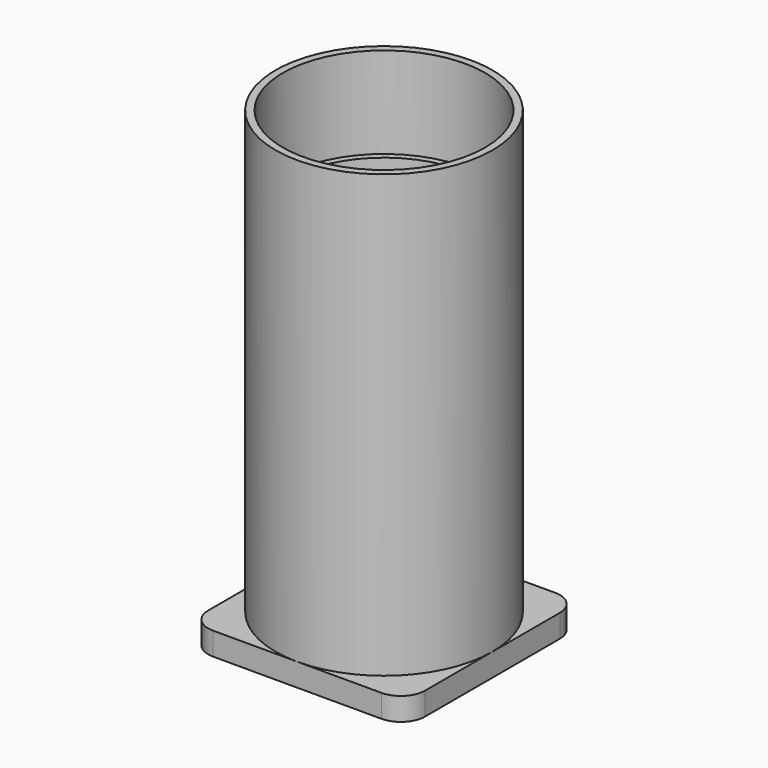
from build123d import *

# Parameters (mm, degrees)
F0_W     = 45.3136
F0_H     = 45.3136
F1_DEPTH = 2.3876
F2_R     = 22.6568
F2_R_2   = 19.8374
F3_DEPTH = 92.2274
F4_W     = 28.575
F4_H     = 28.575
F5_DEPTH = 4.7752
F6_R     = 21.1328
F7_DEPTH = 19.05
F8_R     = 5.08


with BuildPart() as f1:
    # F0 (on Top) → F1 (new body, symmetric)
    with BuildSketch(Plane.XY):
        Rectangle(F0_W, F0_H)
    extrude(amount=F1_DEPTH, both=True)

    # F2 (on face) → F3 (join)
    with BuildSketch(Plane.XY.offset(2.3876)):
        Circle(F2_R)
        Circle(F2_R_2, mode=Mode.SUBTRACT)
    extrude(amount=F3_DEPTH)

    # F4 (on face) → F5 (cut, through all)
    with BuildSketch(Plane(origin=(0, 0, -2.3876), x_dir=(1, 0, 0), z_dir=(0, 0, -1))):
        Rectangle(F4_W, F4_H)
    extrude(amount=-F5_DEPTH, mode=Mode.SUBTRACT)

    # F6 (on face) → F7 (cut)
    with BuildSketch(Plane.XY.offset(94.615)):
        Circle(F6_R)
    extrude(amount=-F7_DEPTH, mode=Mode.SUBTRACT)

    # F8
    f8_edges = [f1.edges().sort_by_distance(p)[0] for p in [
        (-22.6568, -22.6568, 0),
        (-22.6568, 22.6568, 0),
        (22.6568, -22.6568, 0),
        (22.6568, 22.6568, 0),
    ]]
    fillet(f8_edges, radius=F8_R)


solid = f1.part
